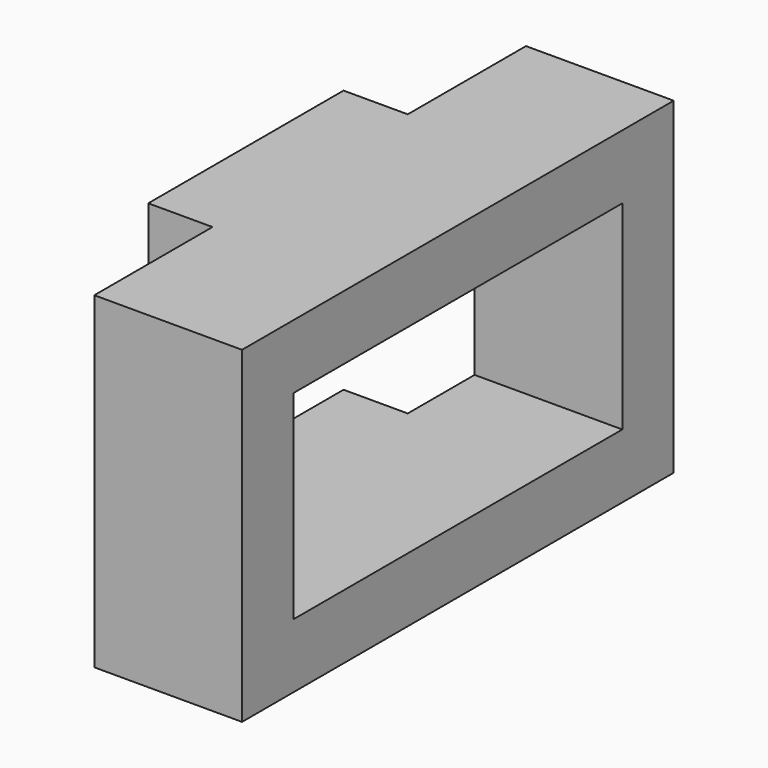
from build123d import *

# Parameters (mm, degrees)
SKETCH063_W      = 2
SKETCH063_H      = 2
EXTRUDE068_DEPTH = 3.8
SKETCH062_W      = 4.6
SKETCH062_H      = 6.2
EXTRUDE067_DEPTH = 6.4
SKETCH061_W      = 4.6
SKETCH061_H      = 10.2
EXTRUDE066_DEPTH = 8.4


with BuildPart() as obj1:
    # Sketch063 → Extrude068 (new body, symmetric)
    with BuildSketch(Plane.XZ):
        with Locations((-3.3, 4.1)):
            Rectangle(SKETCH063_W, SKETCH063_H)
        with Locations((-3.3, -4.1)):
            Rectangle(SKETCH063_W, SKETCH063_H)
    extrude(amount=EXTRUDE068_DEPTH, both=True)


with BuildPart() as obj2:
    # Sketch062 → Extrude067 (new body, symmetric)
    with BuildSketch(Plane.XZ):
        Rectangle(SKETCH062_W, SKETCH062_H)
    extrude(amount=EXTRUDE067_DEPTH, both=True)


with BuildPart() as obj3:
    # Sketch061 → Extrude066 (new body, symmetric)
    with BuildSketch(Plane.XZ):
        Rectangle(SKETCH061_W, SKETCH061_H)
    extrude(amount=EXTRUDE066_DEPTH, both=True)

    # Cut036: cut obj2
    add(obj2.part, mode=Mode.SUBTRACT)

    # Fusion002: union obj1
    add(obj1.part)


solid = obj3.part
